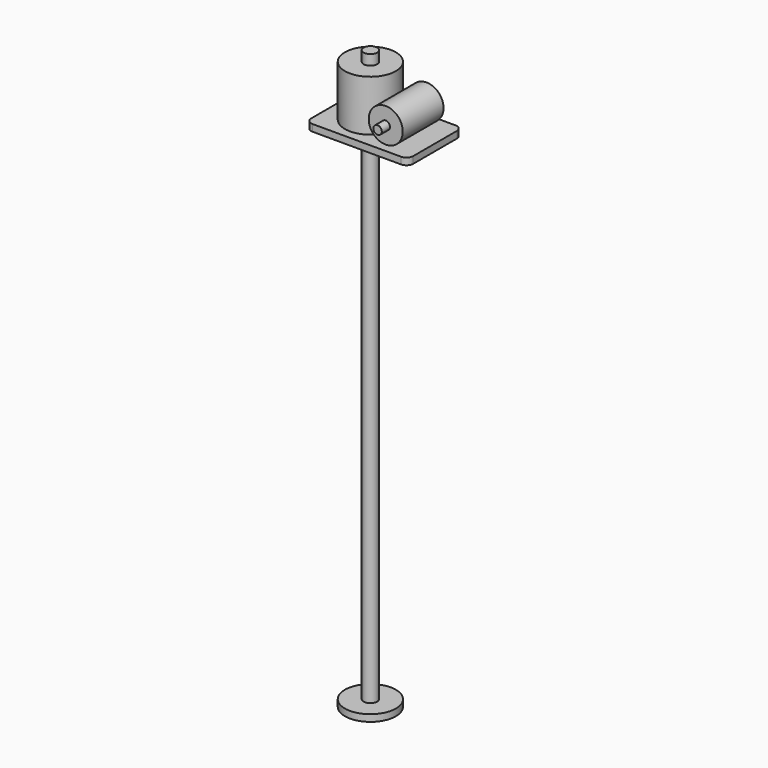
from build123d import *

# Parameters (mm, degrees)
F0_W          = 300
F0_H          = 200
F1_DEPTH      = 20
F2_R          = 75
F3_DEPTH      = 150
F4_R          = 50
F5_DEPTH      = 75
F6_R          = 12.5
F7_DEPTH      = 30
F7_DEPTH_BACK = 180
F8_R          = 20
F9_DEPTH      = 1500
F9_DEPTH_BACK = 200
F10_R         = 75
F11_DEPTH     = 20
F12_R         = 20


with BuildPart() as f1:
    # F0 (on Top) → F1 (new body)
    with BuildSketch(Plane.XY):
        Rectangle(F0_W, F0_H)
    extrude(amount=F1_DEPTH)

    # F2 (on face) → F3 (join)
    with BuildSketch(Plane.XY.offset(20)):
        with Locations((-40, 0)):
            Circle(F2_R)
    extrude(amount=F3_DEPTH)

    # F8 (on face) → F9 (join, two sides)
    with BuildSketch(Plane(origin=(0, 0, 0), x_dir=(1, 0, 0), z_dir=(0, 0, -1))) as f9_sk:
        with Locations((-40, 0)):
            Circle(F8_R)
    extrude(amount=F9_DEPTH)
    extrude(f9_sk.sketch, amount=-F9_DEPTH_BACK)

    # F10 (on face) → F11 (join)
    with BuildSketch(Plane(origin=(0, 0, -1500), x_dir=(1, 0, 0), z_dir=(0, 0, -1))):
        with Locations((-40, 0)):
            Circle(F10_R)
    extrude(amount=-F11_DEPTH)

    # F12
    f12_edges = [f1.edges().sort_by_distance(p)[0] for p in [
        (150, 100, 10),
        (150, -100, 10),
        (-150, -100, 10),
        (-150, 100, 10),
    ]]
    fillet(f12_edges, radius=F12_R)


with BuildPart() as f5:
    # F4 (on Front) → F5 (new body, symmetric)
    with BuildSketch(Plane.XZ):
        with Locations((65.069951, 70)):
            Circle(F4_R)
    extrude(amount=F5_DEPTH, both=True)

    # F6 (on face) → F7 (join, two sides)
    with BuildSketch(Plane.XZ.offset(75)) as f7_sk:
        with Locations((65.069951, 70)):
            Circle(F6_R)
    extrude(amount=F7_DEPTH)
    extrude(f7_sk.sketch, amount=-F7_DEPTH_BACK)


solid = Compound([f1.part, f5.part])
